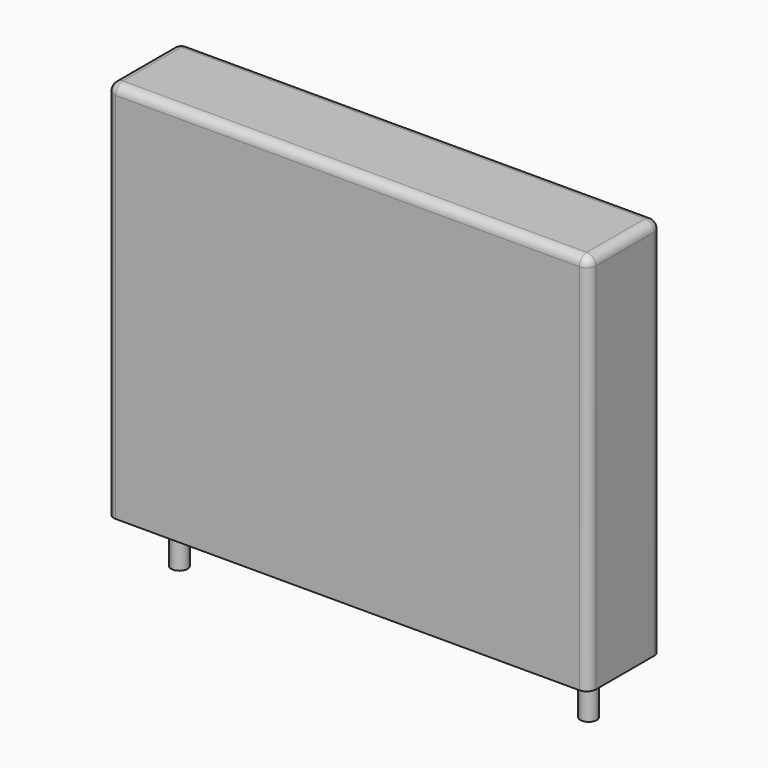
from build123d import *

# Parameters (mm, degrees)
SKETCH_W     = 26.5
SKETCH_H     = 5
PAD_DEPTH    = 21
FILLET_R     = 0.5
SKETCH001_R  = 0.45
PAD001_DEPTH = 3.2


with BuildPart() as fillet_body:
    # Sketch → Pad (new body)
    with BuildSketch(Plane.XY.offset(0.1)):
        with Locations((11.25, 0)):
            Rectangle(SKETCH_W, SKETCH_H)
    extrude(amount=PAD_DEPTH)

    # Fillet
    fillet_edges = [fillet_body.edges().sort_by_distance(p)[0] for p in [
        (-2, 0, 21.1),
        (-2, -2.5, 10.6),
        (11.25, -2.5, 21.1),
        (24.5, -2.5, 10.6),
        (24.5, 0, 21.1),
        (24.5, 2.5, 10.6),
        (11.25, 2.5, 21.1),
        (-2, 2.5, 10.6),
    ]]
    fillet(fillet_edges, radius=FILLET_R)


with BuildPart() as pad001:
    # Sketch001 → Pad001 (new body)
    with BuildSketch(Plane.XY.offset(0.5)):
        Circle(SKETCH001_R)
        with Locations((22.5, 0)):
            Circle(SKETCH001_R)
    extrude(amount=-PAD001_DEPTH)


solid = Compound([fillet_body.part, pad001.part])
